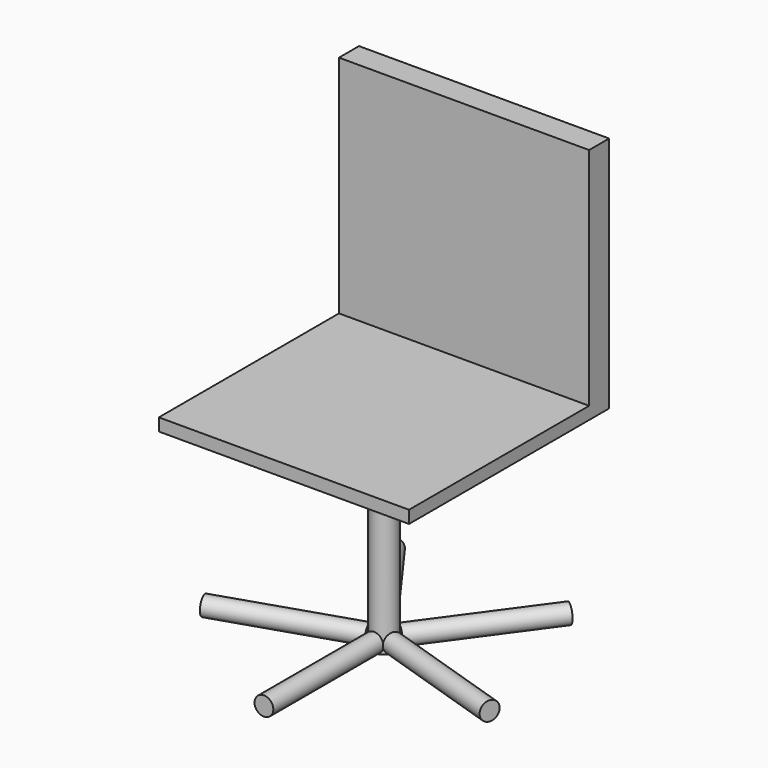
from build123d import *

# Parameters (mm, degrees)
F0_W      = 508
F0_H      = 508
F1_DEPTH  = 25.4
F2_W      = 508
F2_H      = 50.8
F3_DEPTH  = 457.2
F4_R      = 25.4
F5_DEPTH  = 406.4
F7_R      = 19.05
F8_DEPTH  = 279.4
F10_COUNT = 5


with BuildPart() as f1:
    # F0 (on Top) → F1 (new body)
    with BuildSketch(Plane.XY):
        Rectangle(F0_W, F0_H)
    extrude(amount=-F1_DEPTH)

    # F2 (on face) → F3 (join)
    with BuildSketch(Plane.XY):
        with Locations((0, 228.6)):
            Rectangle(F2_W, F2_H)
    extrude(amount=F3_DEPTH)

    # F4 (on face) → F5 (join)
    with BuildSketch(Plane(origin=(0, 0, -25.4), x_dir=(1, 0, 0), z_dir=(0, 0, -1))):
        Circle(F4_R)
    extrude(amount=F5_DEPTH)


with BuildPart() as f8:
    # F7 (on offset) → F8 (new body)
    with BuildSketch(Plane.XZ.offset(25.4)):
        with Locations((0, -412.75)):
            Circle(F7_R)
    extrude(amount=F8_DEPTH)


with BuildPart() as f10_1:
    # F10: instance of F8
    add(f8.part.rotate(Axis((0, 0, -157.5282663107), (0, 0, -1)), 1 * 360 / F10_COUNT))


with BuildPart() as f10_2:
    # F10: instance of F8
    add(f8.part.rotate(Axis((0, 0, -157.5282663107), (0, 0, -1)), 2 * 360 / F10_COUNT))


with BuildPart() as f10_3:
    # F10: instance of F8
    add(f8.part.rotate(Axis((0, 0, -157.5282663107), (0, 0, -1)), 3 * 360 / F10_COUNT))


with BuildPart() as f10_4:
    # F10: instance of F8
    add(f8.part.rotate(Axis((0, 0, -157.5282663107), (0, 0, -1)), 4 * 360 / F10_COUNT))


solid = Compound([f1.part, f8.part, f10_1.part, f10_2.part, f10_3.part, f10_4.part])
